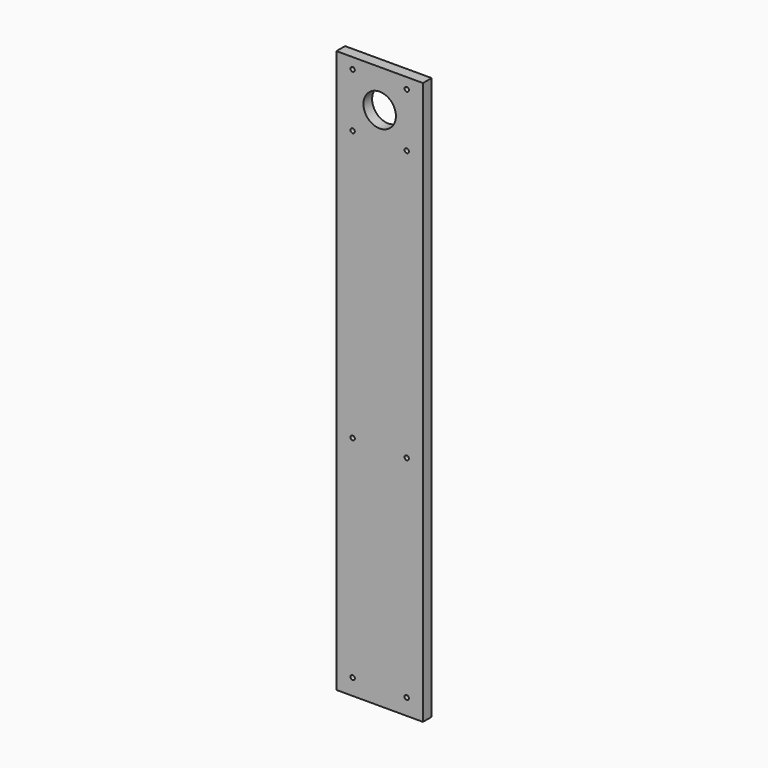
from build123d import *

# Parameters (mm, degrees)
F0_W     = 101.6
F0_H     = 660.4
F0_R     = 2.5527
F0_R_2   = 19.05
F1_DEPTH = 12.7


with BuildPart() as f1:
    # F0 (on Front) → F1 (new body)
    with BuildSketch(Plane.XZ):
        Rectangle(F0_W, F0_H)
        with Locations((-31.75, -311.15)):
            Circle(F0_R, mode=Mode.SUBTRACT)
        with Locations((-31.75, -63.5)):
            Circle(F0_R, mode=Mode.SUBTRACT)
        with Locations((31.75, -311.15)):
            Circle(F0_R, mode=Mode.SUBTRACT)
        with Locations((31.75, -63.5)):
            Circle(F0_R, mode=Mode.SUBTRACT)
        with Locations((-31.75, 254)):
            Circle(F0_R, mode=Mode.SUBTRACT)
        with Locations((-31.75, 317.5)):
            Circle(F0_R, mode=Mode.SUBTRACT)
        with Locations((0, 285.75)):
            Circle(F0_R_2, mode=Mode.SUBTRACT)
        with Locations((31.75, 254)):
            Circle(F0_R, mode=Mode.SUBTRACT)
        with Locations((31.75, 317.5)):
            Circle(F0_R, mode=Mode.SUBTRACT)
    extrude(amount=F1_DEPTH)


solid = f1.part
